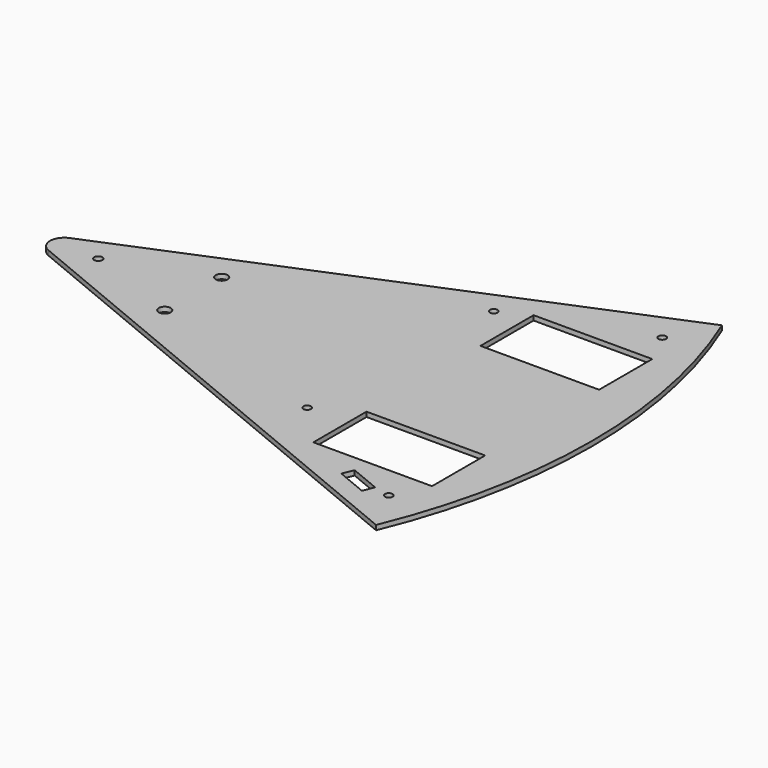
from build123d import *

# Parameters (mm, degrees)
SKETCH_R   = 1.6
SKETCH_R_2 = 1.7
SKETCH_R_3 = 2.5
SKETCH_W   = 50
SKETCH_H   = 28
PAD_DEPTH  = 2
FILLET_R   = 6


with BuildPart() as part:
    # Sketch → Pad (new body)
    with BuildSketch(Plane.XY):
        with BuildLine():
            Line((0, 0), (219.883329, 91.078657))
            ThreePointArc((219.883329, -91.078657), (238, 0), (219.883329, 91.078657))
            Line((0, 0), (219.883329, -91.078657))
        make_face()
        with Locations((155, 52)):
            Circle(SKETCH_R, mode=Mode.SUBTRACT)
        with Locations((150, -40)):
            Circle(SKETCH_R, mode=Mode.SUBTRACT)
        with Locations((210, 72)):
            Circle(SKETCH_R, mode=Mode.SUBTRACT)
        with Locations((210, -72)):
            Circle(SKETCH_R, mode=Mode.SUBTRACT)
        with Locations((30, 0)):
            Circle(SKETCH_R_2, mode=Mode.SUBTRACT)
        with Locations((70, 15)):
            Circle(SKETCH_R_3, mode=Mode.SUBTRACT)
        with Locations((70, -15)):
            Circle(SKETCH_R_3, mode=Mode.SUBTRACT)
        with Locations((192, 44)):
            Rectangle(SKETCH_W, SKETCH_H, mode=Mode.SUBTRACT)
        with Locations((192, -44)):
            Rectangle(SKETCH_W, SKETCH_H, mode=Mode.SUBTRACT)
        Polygon((190, -65), (202.934313, -70.357568), (201.020896, -74.976966), (188.086583, -69.619398), align=None, mode=Mode.SUBTRACT)
    extrude(amount=PAD_DEPTH)

    # Fillet
    fillet_edges = [part.edges().sort_by_distance(p)[0] for p in [
        (0, 0, 1),
    ]]
    fillet(fillet_edges, radius=FILLET_R)


solid = part.part
